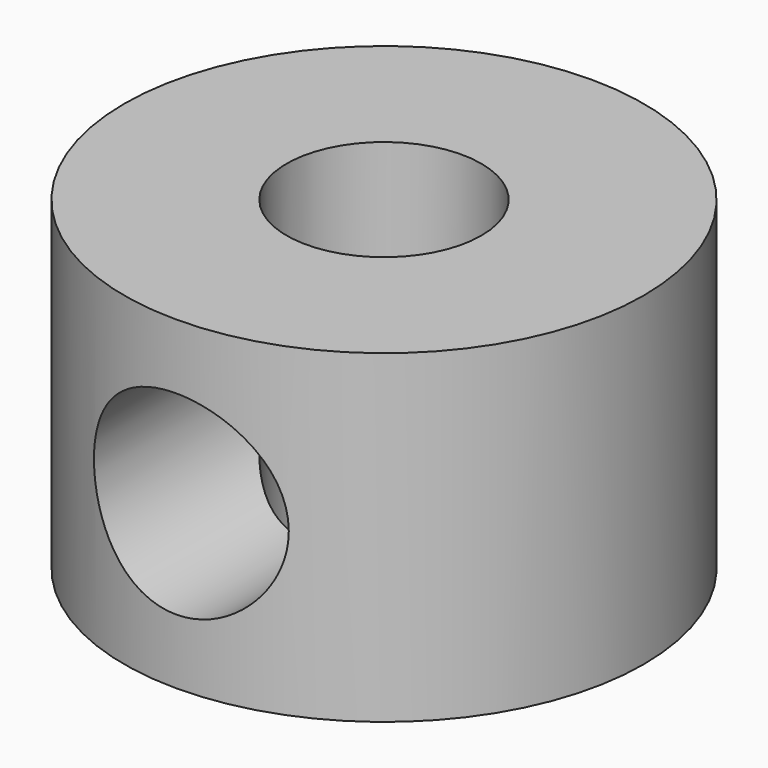
from build123d import *

# Parameters (mm, degrees)
F0_R     = 4
F0_R_2   = 1.5
F1_DEPTH = 5
F2_R     = 1.5
F3_DEPTH = 25


with BuildPart() as f1:
    # F0 (on Top) → F1 (new body)
    with BuildSketch(Plane.XY):
        Circle(F0_R)
        Circle(F0_R_2, mode=Mode.SUBTRACT)
    extrude(amount=F1_DEPTH)

    # F2 (on Front) → F3 (cut)
    with BuildSketch(Plane.XZ):
        with Locations((0, 2.5)):
            Circle(F2_R)
    extrude(amount=F3_DEPTH, mode=Mode.SUBTRACT)


solid = f1.part
